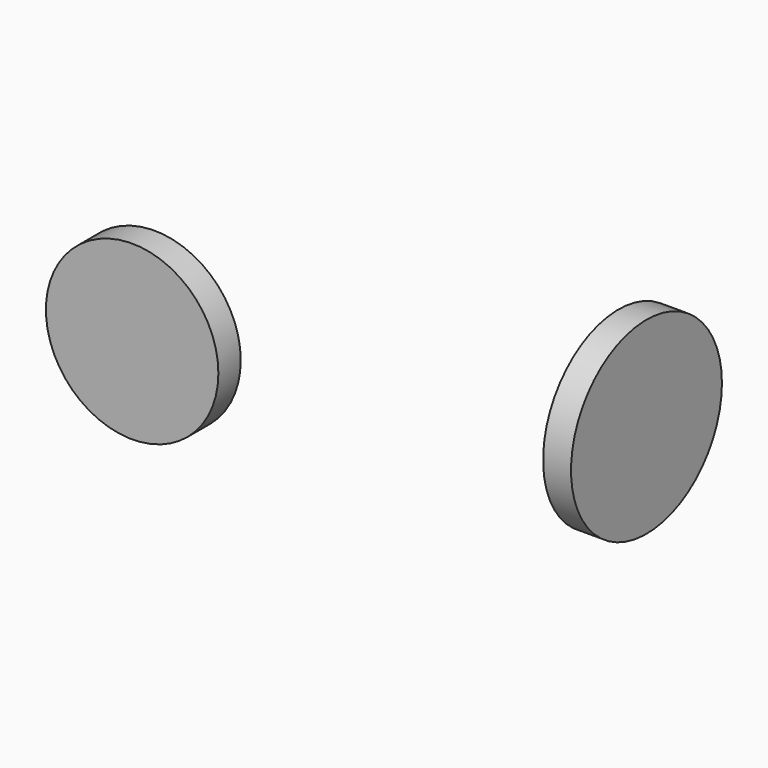
from build123d import *

# Parameters (mm, degrees)
F0_R     = 39.192392
F1_DEPTH = 12.7
F2_R     = 42.85417
F3_DEPTH = 12.7


with BuildPart() as f1:
    # F0 (on Front) → F1 (new body)
    with BuildSketch(Plane.XZ):
        with Locations((-125.267133, 54.092627)):
            Circle(F0_R)
    extrude(amount=F1_DEPTH)


with BuildPart() as f3:
    # F2 (on Right) → F3 (new body)
    with BuildSketch(Plane.YZ):
        with Locations((107.046463, 16.132889)):
            Circle(F2_R)
    extrude(amount=F3_DEPTH)


solid = Compound([f1.part, f3.part])
